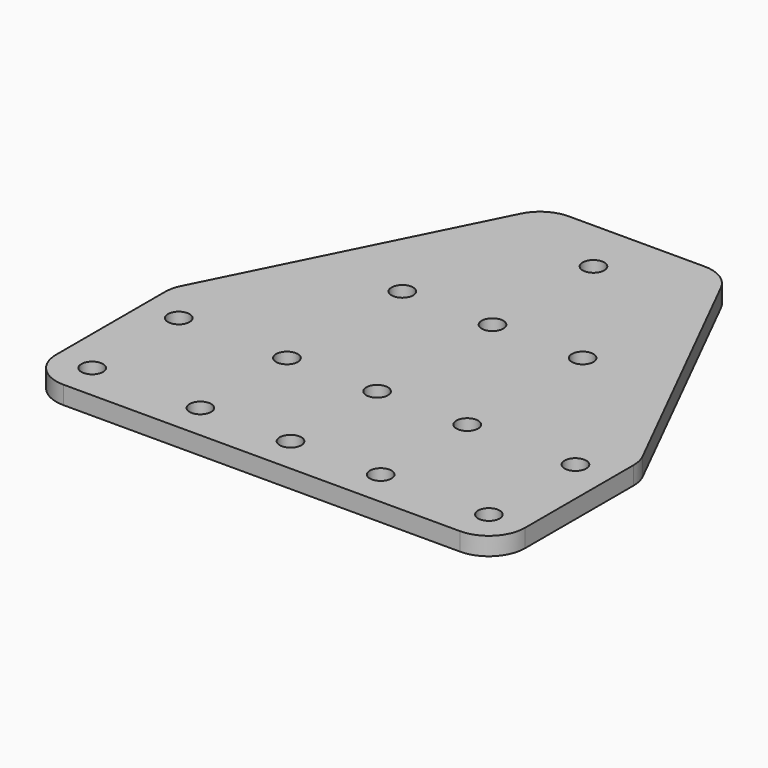
from build123d import *

# Parameters (mm, degrees)
F2_DEPTH = 5
F3_R     = 10
F4_D     = 6


with BuildPart() as f2:
    # F1 (on Top) → F2 (new body)
    with BuildSketch(Plane.XY):
        Polygon((-25.0000044703, 65), (-65, -15), (-65, -65), (65, -65), (65, -15), (25, 65), align=None)
    extrude(amount=F2_DEPTH)

    # F3
    f3_edges = [f2.edges().sort_by_distance(p)[0] for p in [
        (-65, -65, 2.5),
        (-65, -15, 2.5),
        (-25.000004, 65, 2.5),
        (25, 65, 2.5),
        (65, -15, 2.5),
        (65, -65, 2.5),
    ]]
    fillet(f3_edges, radius=F3_R)

    # F4 (through all)
    with Locations(Plane(origin=(0, 0, 0), x_dir=(1, 0, 0), z_dir=(0, 0, -1))):
        with Locations((-55.0000044703, 25), (-25.0000044703, 25), (-55.0000044703, 55), (-25.0000044703, 55), (25, 55), (25, 25), (55, 25), (55, 55), (0, -50), (0, 55), (0, 25), (25, -15), (-2.2352e-06, -15), (-25.0000044703, -15)):
            Hole(F4_D / 2)


solid = f2.part
